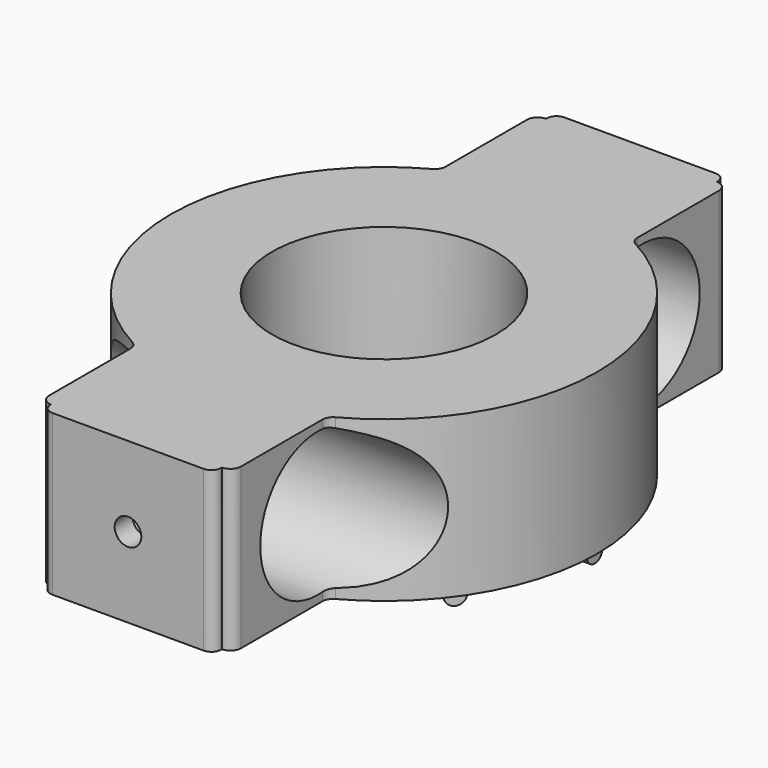
from build123d import *

# Parameters (mm, degrees)
PRISM_DEPTH       = 2.4
PRISM001_DEPTH    = 2.4
CYLINDER012_R     = 1.25
CYLINDER012_DEPTH = 50
CYLINDER011_R     = 1.25
CYLINDER011_DEPTH = 50
CYLINDER007_R     = 6.75
CYLINDER007_DEPTH = 50
CYLINDER008_R     = 6.75
CYLINDER008_DEPTH = 50
BOX002_W          = 18
BOX002_H          = 18
BOX002_DEPTH      = 15
BOX003_W          = 18
BOX003_H          = 18
BOX003_DEPTH      = 15
CYLINDER004_R     = 11.2
CYLINDER004_DEPTH = 23
CYLINDER002_R     = 0.9
CYLINDER002_DEPTH = 19.75
ARRAY001_COUNT    = 10
CYLINDER006_R     = 10.5
CYLINDER006_DEPTH = 32
CYLINDER005_R     = 20
CYLINDER005_DEPTH = 15
FILLET003_R       = 1
CYLINDER029_R     = 1.25
CYLINDER029_DEPTH = 50
BOX009_W          = 16
BOX009_H          = 1
BOX009_DEPTH      = 15
CYLINDER030_R     = 1.25
CYLINDER030_DEPTH = 50
BOX010_W          = 16
BOX010_H          = 1
BOX010_DEPTH      = 15
FILLET010_R       = 0.9


with BuildPart() as prism:
    # Prism → Prism (new body)
    with BuildSketch(Plane(origin=(0, 28, 22.5), x_dir=(1, 0, 0), z_dir=(0, -1, 0))):
        Polygon((3.15, 0), (1.575, 2.72798), (-1.575, 2.72798), (-3.15, 0), (-1.575, -2.72798), (1.575, -2.72798), align=None)
    extrude(amount=PRISM_DEPTH)


with BuildPart() as prism001:
    # Prism001 → Prism001 (new body)
    with BuildSketch(Plane(origin=(0, -25.5, 22.5), x_dir=(1, 0, 0), z_dir=(0, -1, 0))):
        Polygon((3.15, 0), (1.575, 2.72798), (-1.575, 2.72798), (-3.15, 0), (-1.575, -2.72798), (1.575, -2.72798), align=None)
    extrude(amount=PRISM001_DEPTH)


with BuildPart() as cylinder011:
    # Cylinder012 → Cylinder012 (new body)
    with BuildSketch(Plane(origin=(0, 69, 22.5), x_dir=(1, 0, 0), z_dir=(0, -1, 0))):
        Circle(CYLINDER012_R)
    extrude(amount=CYLINDER012_DEPTH)


with BuildPart() as cylinder010:
    # Cylinder011 → Cylinder011 (new body)
    with BuildSketch(Plane(origin=(0, -16, 22.5), x_dir=(1, 0, 0), z_dir=(0, -1, 0))):
        Circle(CYLINDER011_R)
    extrude(amount=CYLINDER011_DEPTH)


with BuildPart() as cylinder007:
    # Cylinder007 → Cylinder007 (new body)
    with BuildSketch(Plane(origin=(-24, 19, 22.5), x_dir=(0, 0, -1), z_dir=(1, 0, 0))):
        Circle(CYLINDER007_R)
    extrude(amount=CYLINDER007_DEPTH)


with BuildPart() as cylinder008:
    # Cylinder008 → Cylinder008 (new body)
    with BuildSketch(Plane(origin=(-24, -19, 22.5), x_dir=(0, 0, -1), z_dir=(1, 0, 0))):
        Circle(CYLINDER008_R)
    extrude(amount=CYLINDER008_DEPTH)


with BuildPart() as cube002:
    # Box002 → Box002 (new body)
    with BuildSketch(Plane(origin=(-9, -29, 15), x_dir=(1, 0, 0), z_dir=(0, 0, 1))):
        with Locations((9, 9)):
            Rectangle(BOX002_W, BOX002_H)
    extrude(amount=BOX002_DEPTH)


with BuildPart() as cube003:
    # Box003 → Box003 (new body)
    with BuildSketch(Plane(origin=(-9, 11, 15), x_dir=(1, 0, 0), z_dir=(0, 0, 1))):
        with Locations((9, 9)):
            Rectangle(BOX003_W, BOX003_H)
    extrude(amount=BOX003_DEPTH)


with BuildPart() as cylinder004:
    # Cylinder004 → Cylinder004 (new body)
    with BuildSketch(Plane.XY):
        Circle(CYLINDER004_R)
    extrude(amount=CYLINDER004_DEPTH)


with BuildPart() as obj1:
    # Cylinder002 → Cylinder002 (new body)
    with BuildSketch(Plane(origin=(0, 0, 15), x_dir=(0, 0, -1), z_dir=(1, 0, 0))):
        Circle(CYLINDER002_R)
    extrude(amount=CYLINDER002_DEPTH)

    # Array001: obj1 ×10 about axis
    array001_axis = Axis((0, 0, 0), (0, 0, 1))


with BuildPart() as obj1_1:
    add(obj1.part)
    for i in range(1, ARRAY001_COUNT):
        add(obj1.part.rotate(array001_axis, i * 360 / ARRAY001_COUNT))

    # Cut002: cut Cylinder004
    add(cylinder004.part, mode=Mode.SUBTRACT)


with BuildPart() as cylinder006:
    # Cylinder006 → Cylinder006 (new body)
    with BuildSketch(Plane.XY):
        Circle(CYLINDER006_R)
    extrude(amount=CYLINDER006_DEPTH)


with BuildPart() as obj2:
    # Cylinder005 → Cylinder005 (new body)
    with BuildSketch(Plane.XY.offset(15)):
        Circle(CYLINDER005_R)
    extrude(amount=CYLINDER005_DEPTH)

    # Cut004: cut Cylinder006
    add(cylinder006.part, mode=Mode.SUBTRACT)

    # Fusion001: union obj1
    add(obj1_1.part)

    # Fusion002: union Cube002, Cube003
    add(cube002.part)
    add(cube003.part)

    # Cut005: cut Cylinder008
    add(cylinder008.part, mode=Mode.SUBTRACT)

    # Cut006: cut Cylinder007
    add(cylinder007.part, mode=Mode.SUBTRACT)

    # Fillet003
    fillet003_edges = [obj2.edges().sort_by_distance(p)[0] for p in [
        (-9, -17.860571, 29.576567),
        (-9, -17.860571, 15.423433),
        (-9, -29, 22.5),
        (-9, 17.860571, 15.423433),
        (-9, 17.860571, 29.576567),
        (9, -29, 22.5),
        (9, -17.860571, 29.576567),
        (9, -17.860571, 15.423433),
        (9, 17.860571, 29.576567),
        (9, 17.860571, 15.423433),
        (9, 29, 22.5),
        (-9, 29, 22.5),
    ]]
    fillet(fillet003_edges, radius=FILLET003_R)

    # Cut008: cut Cylinder010
    add(cylinder010.part, mode=Mode.SUBTRACT)

    # Cut009: cut Cylinder011
    add(cylinder011.part, mode=Mode.SUBTRACT)

    # Cut025: cut Prism001
    add(prism001.part, mode=Mode.SUBTRACT)

    # Cut026: cut Prism
    add(prism.part, mode=Mode.SUBTRACT)


with BuildPart() as cylinder020:
    # Cylinder029 → Cylinder029 (new body)
    with BuildSketch(Plane(origin=(0, 69, 22.5), x_dir=(1, 0, 0), z_dir=(0, -1, 0))):
        Circle(CYLINDER029_R)
    extrude(amount=CYLINDER029_DEPTH)


with BuildPart() as cut027:
    # Box009 → Box009 (new body)
    with BuildSketch(Plane(origin=(-8, 29, 15), x_dir=(1, 0, 0), z_dir=(0, 0, 1))):
        with Locations((8, 0.5)):
            Rectangle(BOX009_W, BOX009_H)
    extrude(amount=BOX009_DEPTH)

    # Cut027: cut Cylinder020
    add(cylinder020.part, mode=Mode.SUBTRACT)


with BuildPart() as cylinder021:
    # Cylinder030 → Cylinder030 (new body)
    with BuildSketch(Plane(origin=(0, 69, 22.5), x_dir=(1, 0, 0), z_dir=(0, -1, 0))):
        Circle(CYLINDER030_R)
    extrude(amount=CYLINDER030_DEPTH)


with BuildPart() as obj3:
    # Box010 → Box010 (new body)
    with BuildSketch(Plane(origin=(-8, 29, 15), x_dir=(1, 0, 0), z_dir=(0, 0, 1))):
        with Locations((8, 0.5)):
            Rectangle(BOX010_W, BOX010_H)
    extrude(amount=BOX010_DEPTH)

    # Cut028: cut Cylinder021
    add(cylinder021.part, mode=Mode.SUBTRACT)


with BuildPart() as obj3_1:
    # Cut028 placement: moved
    add(obj3.part.moved(Location((0, -59, 0))))

    # Fusion008: union obj2, Cut027
    add(obj2.part)
    add(cut027.part)

    # Fillet010
    fillet010_edges = [obj3_1.edges().sort_by_distance(p)[0] for p in [
        (-8, -30, 22.5),
        (8, -30, 22.5),
        (-8, 30, 22.5),
        (8, 30, 22.5),
    ]]
    fillet(fillet010_edges, radius=FILLET010_R)


solid = obj3_1.part
